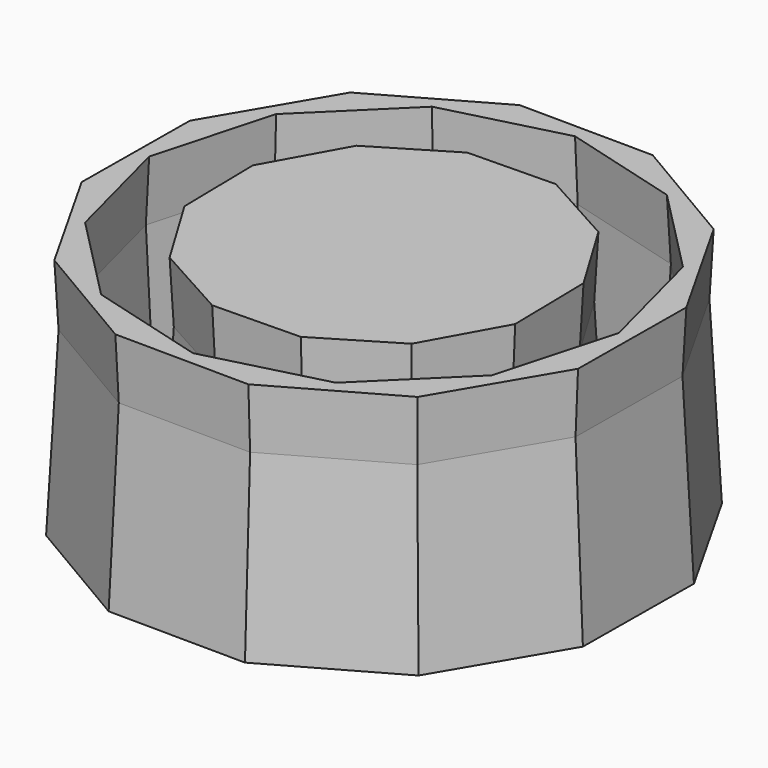
from build123d import *

# Parameters (mm, degrees)
F1_DEPTH      = 13.462
F1_TAPER      = -3
F1_DEPTH_BACK = 39.624
F1_TAPER_BACK = -3


with BuildPart() as f1:
    # F0 (on Top) → F1 (new body, two sides)
    with BuildSketch(Plane.XY) as f1_sk:
        Polygon((54.2737135372, 14.03480515), (39.9850121059, 39.2913545657), (14.9823589715, 54.0198172559), (-14.03480515, 54.2737135372), (-39.2913545657, 39.9850121059), (-54.0198172559, 14.9823589715), (-54.2737135372, -14.03480515), (-39.9850121059, -39.2913545657), (-14.9823589715, -54.0198172559), (14.03480515, -54.2737135372), (39.2913545657, -39.9850121059), (54.0198172559, -14.9823589715), align=None)
        Polygon((26.6759825885, 45.3451159994), (45.7746365922, 25.9320310988), (52.6080136872, -0.4295205929), (45.3451159994, -26.6759825885), (25.9320310988, -45.7746365922), (-0.4295205929, -52.6080136872), (-26.6759825885, -45.3451159994), (-45.7746365922, -25.9320310988), (-52.6080136872, 0.4295205929), (-45.3451159994, 26.6759825885), (-25.9320310988, 45.7746365922), (0.4295205929, 52.6080136872), align=None, mode=Mode.SUBTRACT)
    extrude(amount=F1_DEPTH, taper=F1_TAPER)
    extrude(f1_sk.sketch, amount=-F1_DEPTH_BACK, taper=F1_TAPER_BACK)


with BuildPart() as f1b:
    # F0 (on Top) → F1, piece 2 (new body, two sides)
    with BuildSketch(Plane.XY) as f1_2_sk:
        Polygon((-26.1334300039, 25.2190905944), (-35.2417595686, 8.7736581131), (-34.9070881171, -10.0226689742), (-25.2190905944, -26.1334300039), (-8.7736581131, -35.2417595686), (10.0226689742, -34.9070881171), (26.1334300039, -25.2190905944), (35.2417595686, -8.7736581131), (34.9070881171, 10.0226689742), (25.2190905944, 26.1334300039), (8.7736581131, 35.2417595686), (-10.0226689742, 34.9070881171), align=None)
        Polygon((-33.5784053399, 0), (-16.7892026699, 29.0797520429), (16.7892026699, 29.0797520429), (33.5784053399, 0), (16.7892026699, -29.0797520429), (-16.7892026699, -29.0797520429), align=None, mode=Mode.SUBTRACT)
        Polygon((16.7892026699, 29.0797520429), (-16.7892026699, 29.0797520429), (-33.5784053399, 0), (-16.7892026699, -29.0797520429), (16.7892026699, -29.0797520429), (33.5784053399, 0), align=None)
        Polygon((-23.5324761021, -13.6692839848), (-23.6041852334, 13.545080126), (-0.0717091313, 27.2143641108), (23.5324761021, 13.6692839848), (23.6041852334, -13.545080126), (0.0717091313, -27.2143641108), align=None, mode=Mode.SUBTRACT)
        Polygon((-0.0717091313, 27.2143641108), (-23.6041852334, 13.545080126), (-23.5324761021, -13.6692839848), (0.0717091313, -27.2143641108), (23.6041852334, -13.545080126), (23.5324761021, 13.6692839848), align=None)
        Polygon((-10.1378994835, 19.2613495842), (11.6118683093, 18.4103532858), (21.7497677929, -0.8509962984), (10.1378994835, -19.2613495842), (-11.6118683093, -18.4103532858), (-21.7497677929, 0.8509962984), align=None, mode=Mode.SUBTRACT)
        Polygon((21.7497677929, -0.8509962984), (11.6118683093, 18.4103532858), (-10.1378994835, 19.2613495842), (-21.7497677929, 0.8509962984), (-11.6118683093, -18.4103532858), (10.1378994835, -19.2613495842), align=None)
    extrude(amount=F1_DEPTH, taper=F1_TAPER)
    extrude(f1_2_sk.sketch, amount=-F1_DEPTH_BACK, taper=F1_TAPER_BACK)


solid = Compound([f1.part, f1b.part])
